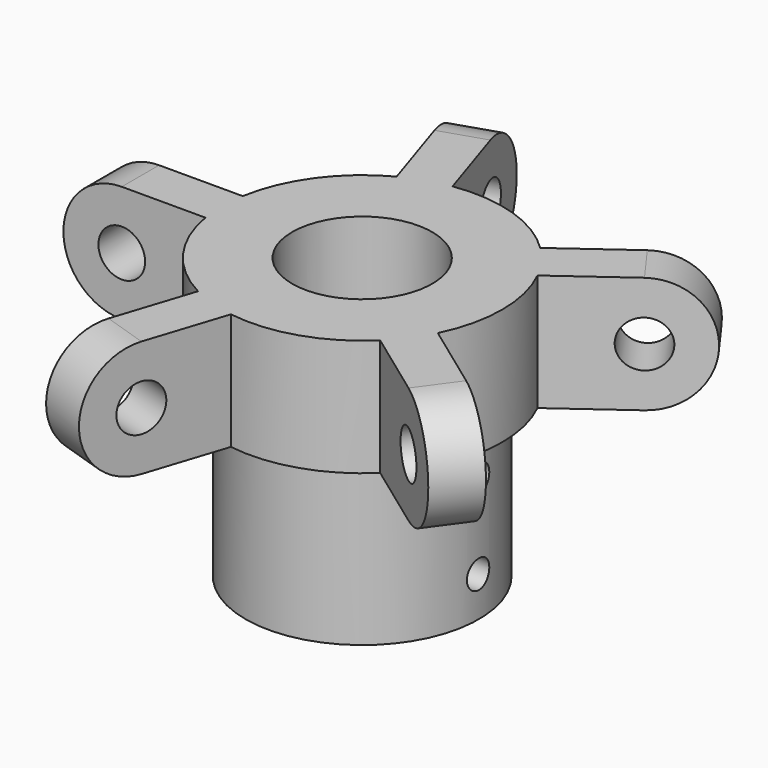
from build123d import *

# Parameters (mm, degrees)
F3_DEPTH      = 1
F4_R          = 1
F5_DEPTH      = 7.001
F6_COUNT      = 5
F7_R          = 0.6
F8_DEPTH      = 12.001
F8_DEPTH_BACK = 10.2969891848


with BuildPart() as f1:
    # F0 (on Front) → F1 (revolve)
    with BuildSketch(Plane.XZ):
        Polygon((-3, -7), (-3, 5), (-6, 5), (-6, 0), (-5, 0), (-5, -7), align=None)
    revolve(axis=Axis((0, 0, -4.9457359128), (0, 0, -1)))

    # F2 (on Front) → F3 (join, symmetric)
    with BuildSketch(Plane.XZ):
        with BuildLine():
            ThreePointArc((-7, 2.5), (-7.732233047, 4.267766953), (-9.5, 5))
            ThreePointArc((-9.5, 5), (-12, 2.5), (-9.5, 0))
            ThreePointArc((-9.5, 0), (-7.732233047, 0.732233047), (-7, 2.5))
        make_face()
        with BuildLine():
            Line((-5, 5), (-9.5, 5))
            ThreePointArc((-9.5, 5), (-7.732233047, 4.267766953), (-7, 2.5))
            ThreePointArc((-7, 2.5), (-7.732233047, 0.732233047), (-9.5, 0))
            Line((-9.5, 0), (-5, 0))
            Line((-5, 0), (-5, 5))
        make_face()
    extrude(amount=F3_DEPTH, both=True)

    # F4 (on face) → F5 (cut, through all)
    with BuildSketch(Plane.XZ.offset(1)):
        with Locations((-9.5, 2.5)):
            Circle(F4_R)
    extrude(amount=-F5_DEPTH, mode=Mode.SUBTRACT)

    # F6: F1 ×5 about axis
    f6_axis = Axis((0, 0, -7), (0, 0, 1))


with BuildPart() as f1_1:
    add(f1.part)
    for i in range(1, F6_COUNT):
        add(f1.part.rotate(f6_axis, i * 360 / F6_COUNT))

    # F7 (on Right) → F8 (cut, two sides)
    with BuildSketch(Plane.YZ) as f8_sk:
        with Locations((0, -1.7)):
            Circle(F7_R)
        with Locations((0, -5.3)):
            Circle(F7_R)
    extrude(amount=-F8_DEPTH, mode=Mode.SUBTRACT)
    extrude(f8_sk.sketch, amount=F8_DEPTH_BACK, mode=Mode.SUBTRACT)


solid = f1_1.part
